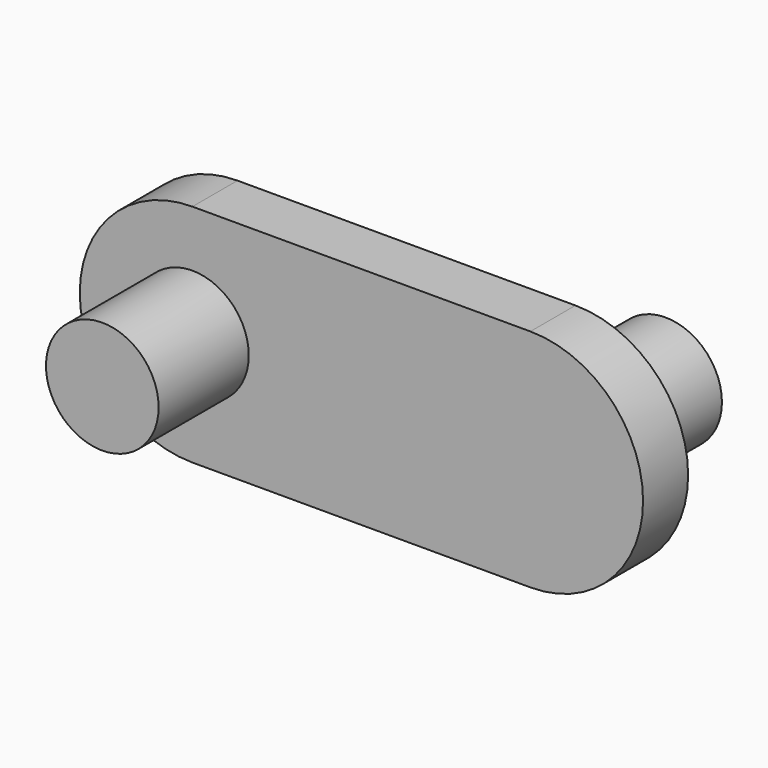
from build123d import *

# Parameters (mm, degrees)
F1_DEPTH = 5
F2_R     = 5
F3_DEPTH = 10
F4_R     = 5
F5_DEPTH = 10


with BuildPart() as f1:
    # F0 (on Front) → F1 (new body)
    with BuildSketch(Plane.XZ):
        with BuildLine():
            ThreePointArc((0, 20), (-10, 10), (0, 0))
            Line((0, 0), (30, 0))
            ThreePointArc((30, 0), (40, 10), (30, 20))
            Line((30, 20), (0, 20))
        make_face()
    extrude(amount=F1_DEPTH)

    # F2 (on face) → F3 (join)
    with BuildSketch(Plane.XZ.offset(5)):
        with Locations((0, 10)):
            Circle(F2_R)
    extrude(amount=F3_DEPTH)

    # F4 (on face) → F5 (join)
    with BuildSketch(Plane.XZ):
        with Locations((30, 10)):
            Circle(F4_R)
    extrude(amount=-F5_DEPTH)


solid = f1.part
